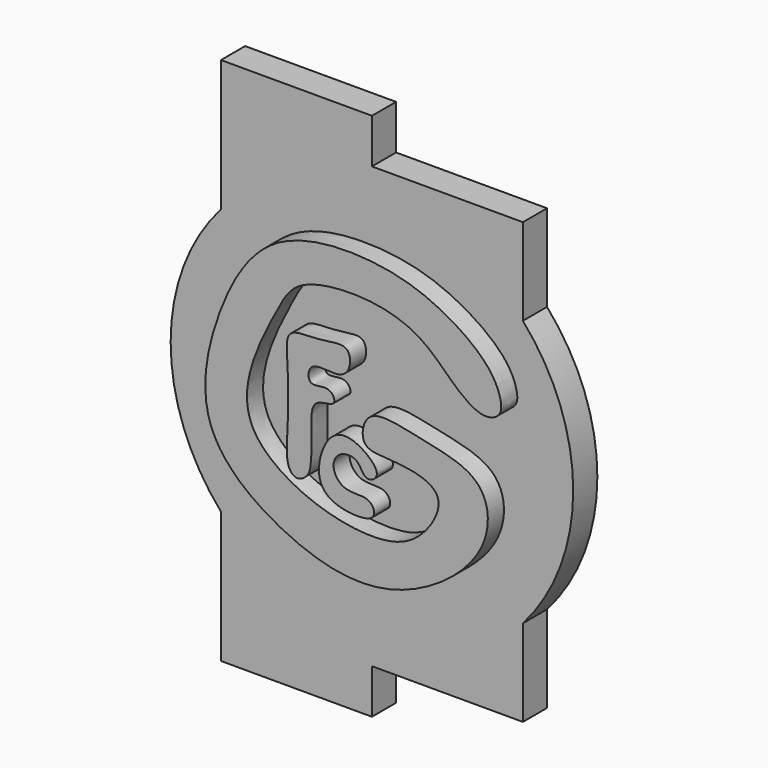
from build123d import *

# Parameters (mm, degrees)
F3_DEPTH = 2.1
F4_DEPTH = 3.5


with BuildPart() as f3:
    # F1 (on Front) → F3 (new body)
    with BuildSketch(Plane.XZ):
        with BuildLine():
            Line((-10.5, 18.4), (-10.5, 9.2601295887))
            ThreePointArc((-10.5, 9.2601295887), (-14, 0), (-10.5, -9.2601295887))
            Line((-10.5, -9.2601295887), (-10.5, -18.4))
            Line((-10.5, -18.4), (0, -18.4))
            Line((0, -18.4), (0, -15.3))
            Line((0, -15.3), (10.5, -15.3))
            Line((10.5, -15.3), (10.5, -9.2601295887))
            ThreePointArc((10.5, -9.2601295887), (14, 0), (10.5, 9.2601295887))
            Line((10.5, 9.2601295887), (10.5, 15.3))
            Line((10.5, 15.3), (0, 15.3))
            Line((0, 15.3), (0, 18.4))
            Line((0, 18.4), (-10.5, 18.4))
        make_face()
    extrude(amount=F3_DEPTH)

    # F2 (on Front) → F4 (join)
    with BuildSketch(Plane.XZ):
        with BuildLine():
            add(Edge.make_bspline(
                [(10.0611094385, 4.8624509946), (9.9442344849, 5.4014389277), (9.2388549851, 6.9371112446), (5.5671823749, 9.4737037987), (0.8421632248, 10.7615040026), (-6.2681714885, 10.2615697712), (-9.8841453582, 3.9385285178), (-11.3807355113, -3.8530747044), (-4.8674311963, -8.7260373449), (2.4888355065, -10.4371855888), (9.5718415451, -5.3383639446), (9.1958688757, -0.212607706), (4.7793458004, 0.5724292388), (1.6615796667, 1.3578889653), (0.5056274596, 0.5867585271), (0.3129329944, -1.382634009), (2.9043418288, -1.2031481903), (6.6694147511, -2.0412803366), (4.6204240832, -5.6492845123), (1.6743103657, -6.7347653167), (-3.3861357601, -5.8705077963), (-7.7415503109, -2.9080756482), (-7.628193174, 1.1684227216), (-5.4924731799, 5.302219944), (-4.103646953, 7.8181250285), (0.9228677432, 8.2478363538), (4.6530079883, 7.0457826716), (6.7094679339, 4.7221543649), (8.7701698326, 3.2195102953), (10.1411783932, 3.8084679192), (10.1411783578, 4.4932000992), (10.0611094385, 4.8624509946)],
                knots=[0, 0, 0, 0, 0.0254210097, 0.0623757421, 0.1024956931, 0.1477306462, 0.1943767035, 0.2420934367, 0.2898536052, 0.3382443035, 0.3878825953, 0.4226417547, 0.4586574009, 0.4904426698, 0.5095601687, 0.5302636811, 0.5572551616, 0.5882565151, 0.6187817802, 0.6501160812, 0.6902788953, 0.7295216518, 0.7635898409, 0.8019526996, 0.8310315338, 0.8694100066, 0.9047671826, 0.9362337599, 0.9636965777, 0.9825845255, 1, 1, 1, 1], degree=3))
        make_face()
        with BuildLine():
            add(Edge.make_bspline(
                [(-4.6734050848, -3.9981687441), (-4.8932592704, -3.3992360561), (-4.6251936854, -1.2021742364), (-4.7439732691, 2.379799423), (-4.9043615205, 4.557515253), (-2.4892985772, 4.3052220237), (-0.4041686545, 4.9236017637), (-0.3179786943, 3.1671379944), (-1.326184558, 2.5051446112), (-3.3151678403, 3.0540082825), (-3.3831882427, 1.1788018626), (-1.803455954, 1.9558228899), (-1.1780093669, 0.5692745938), (-3.2154806068, 0.8469377881), (-3.0378525413, -1.4925125243), (-3.0979841824, -3.2452184021), (-3.2490762706, -4.1740211707), (-4.1064399285, -4.743158005), (-4.5527037122, -4.3269866709), (-4.6734050848, -3.9981687441)],
                knots=[0, 0, 0, 0, 0.0792843114, 0.1745679401, 0.2359649273, 0.3054106846, 0.3710333752, 0.4229909389, 0.4731690812, 0.5361972453, 0.5832548957, 0.6372179718, 0.6798999631, 0.734162254, 0.8012229601, 0.8677380415, 0.9131516014, 0.9564723993, 1, 1, 1, 1], degree=3))
        make_face()
        with BuildLine():
            add(Edge.make_bspline(
                [(1.4493830968, -2.3554696236), (1.3449375169, -1.918253818), (0.0255038722, -0.8305351214), (-1.5718486229, -0.8206508267), (-2.5282358614, -2.4194565826), (-2.7000859875, -4.4383641592), (-1.2637687663, -5.5475087825), (1.434228182, -5.595639397), (1.2290170744, -4.4376730329), (0.4980055689, -4.0962158816), (-0.8710472023, -4.2858325376), (-1.7516764434, -3.1403902024), (-1.2913176921, -1.9740860658), (0.1622191052, -1.8561270443), (0.5229769332, -3.0502017424), (1.2551814393, -2.9848326632), (1.5074927587, -2.5987203449), (1.4493830968, -2.3554696236)],
                knots=[0, 0, 0, 0, 0.0840091898, 0.1562731692, 0.2344896544, 0.3162941342, 0.3949341062, 0.4851779164, 0.535488681, 0.5871554215, 0.6559445109, 0.7221008273, 0.7831520185, 0.8475045061, 0.9086646648, 0.9532603905, 1, 1, 1, 1], degree=3))
        make_face()
    extrude(amount=F4_DEPTH)


solid = f3.part
